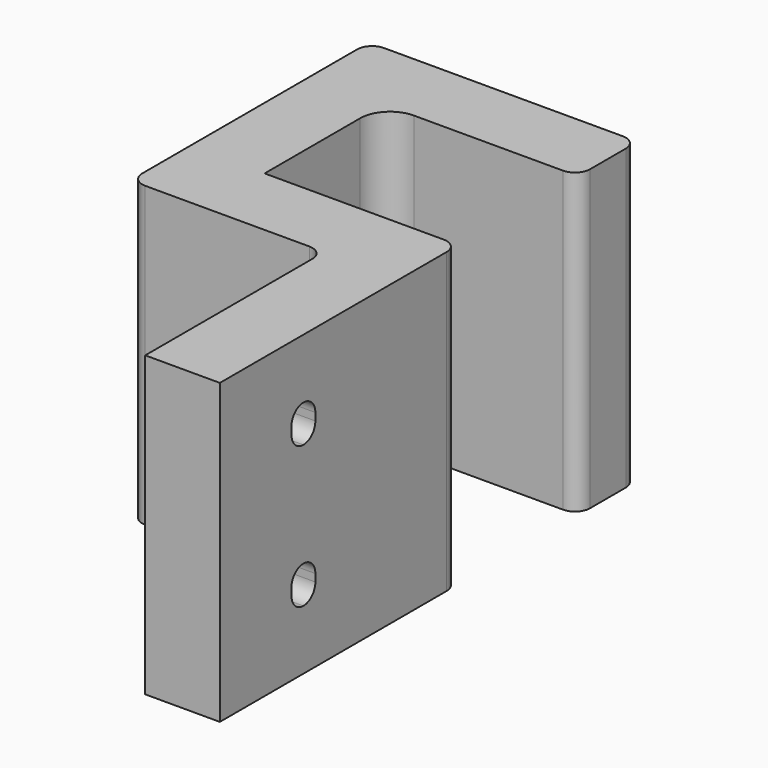
from build123d import *

# Parameters (mm, degrees)
F1_DEPTH = 20
F3_DEPTH = 18.001


with BuildPart() as f1:
    # F0 (on Top) → F1 (new body)
    with BuildSketch(Plane.XY):
        with BuildLine():
            Line((-5, 0), (0, 0))
            Line((0, 0), (0, 19))
            ThreePointArc((0, 19), (-0.292893, 19.707107), (-1, 20))
            Line((-1, 20), (-13, 20))
            Line((-13, 20), (-13, 28))
            ThreePointArc((-13, 28), (-12.414214, 29.414214), (-11, 30))
            Line((-11, 30), (-1, 30))
            ThreePointArc((-1, 30), (-0.292893, 30.292893), (0, 31))
            Line((0, 31), (0, 34))
            ThreePointArc((0, 34), (-0.292893, 34.707107), (-1, 35))
            Line((-1, 35), (-17, 35))
            ThreePointArc((-17, 35), (-17.707107, 34.707107), (-18, 34))
            Line((-18, 34), (-18, 16))
            ThreePointArc((-18, 16), (-17.707107, 15.292893), (-17, 15))
            Line((-17, 15), (-6, 15))
            ThreePointArc((-6, 15), (-5.292893, 14.707107), (-5, 14))
            Line((-5, 14), (-5, 0))
        make_face()
    extrude(amount=F1_DEPTH)

    # F2 (on face) → F3 (cut, through all)
    with BuildSketch(Plane.YZ):
        with BuildLine():
            ThreePointArc((7, 16), (6.292893, 15.707107), (6, 15))
            Line((6, 15), (6, 14.5))
            ThreePointArc((6, 14.5), (6.292893, 13.792893), (7, 13.5))
            ThreePointArc((7, 13.5), (7.707107, 13.792893), (8, 14.5))
            Line((8, 14.5), (8, 15))
            ThreePointArc((8, 15), (7.707107, 15.707107), (7, 16))
        make_face()
        with BuildLine():
            ThreePointArc((7, 6.5), (6.292893, 6.207107), (6, 5.5))
            Line((6, 5.5), (6, 5))
            ThreePointArc((6, 5), (6.292893, 4.292893), (7, 4))
            ThreePointArc((7, 4), (7.707107, 4.292893), (8, 5))
            Line((8, 5), (8, 5.5))
            ThreePointArc((8, 5.5), (7.707107, 6.207107), (7, 6.5))
        make_face()
    extrude(amount=-F3_DEPTH, mode=Mode.SUBTRACT)


solid = f1.part
